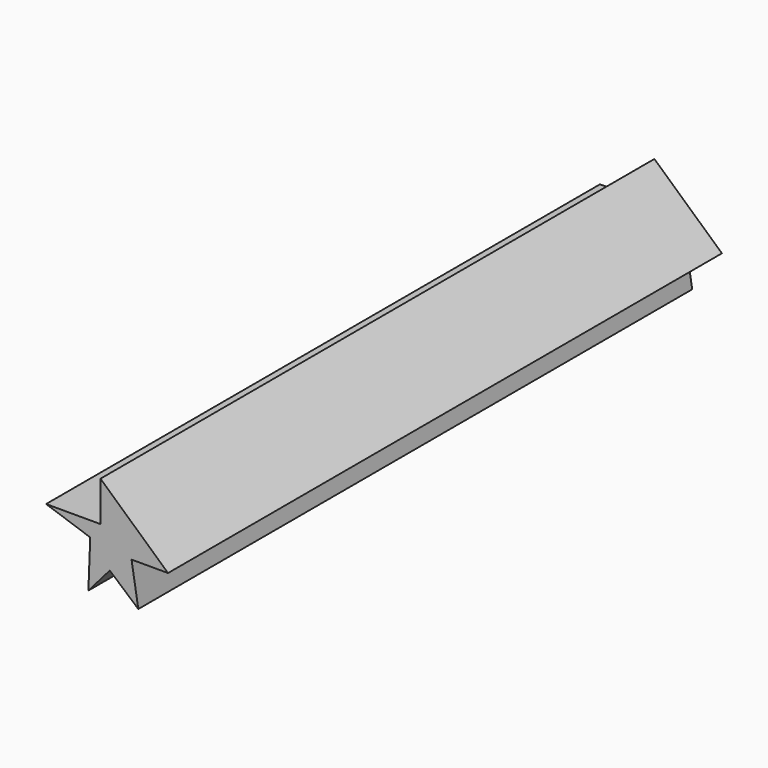
from build123d import *

# Parameters (mm, degrees)
F1_DEPTH = 25.4
F2_DEPTH = 609.6
F3_DEPTH = 25.4


with BuildPart() as f1:
    # F0 (on Front) → F1 (new body)
    with BuildSketch(Plane.XZ):
        Polygon((-28.0406700106, -48.6028654858), (-7.6316785999, -25.0319186598), (19.5911039028, -48.6028654858), (13.1264980882, -9.1580180451), (47.9269810021, -9.1580180451), (-16.4844300598, 49.1480454803), (-16.4844300598, 10.9896259382), (-68.3798789978, 10.9896259382), (-26.2529868633, -3.3579384908), align=None)
    extrude(amount=F1_DEPTH)

    # F2 (add): a face of the model
    f2_faces = [f1.faces().sort_by_distance(p)[0] for p in [
        (-3.7729101516, -25.4, -1.8402904119),
    ]]
    extrude(f2_faces, amount=F2_DEPTH)

    # F3 (add): a face of the model
    f3_faces = [f1.faces().sort_by_distance(p)[0] for p in [
        (-3.7729101516, -635, -1.8402904119),
    ]]
    extrude(f3_faces, amount=F3_DEPTH)


solid = f1.part
